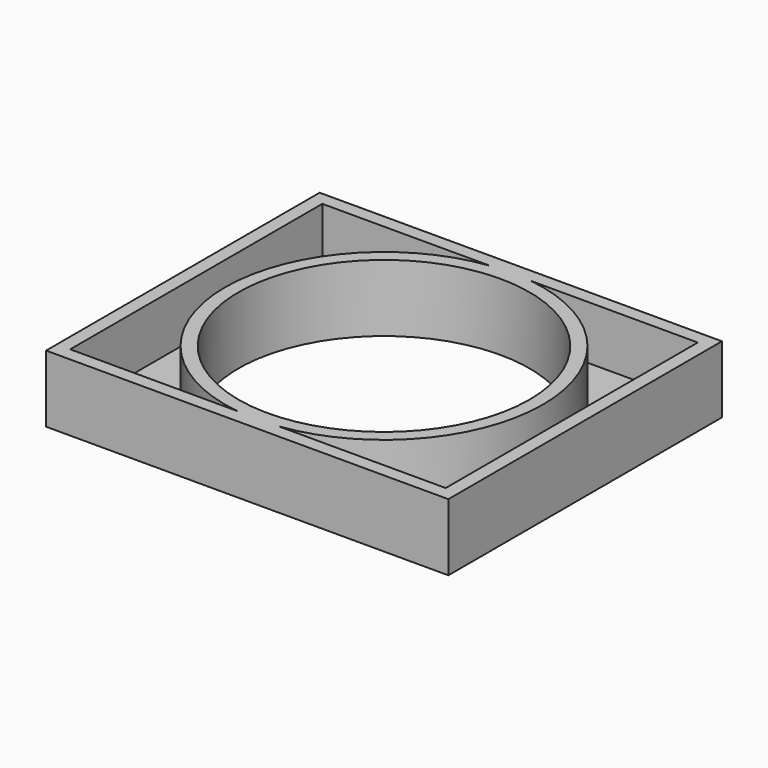
from build123d import *

# Parameters (mm, degrees)
F0_W     = 76.2
F0_H     = 64.77
F0_R     = 27.559
F1_DEPTH = 12.7
F2_T     = -2.54


with BuildPart() as f1:
    # F0 (on Top) → F1 (new body)
    with BuildSketch(Plane.XY):
        Rectangle(F0_W, F0_H)
        Circle(F0_R, mode=Mode.SUBTRACT)
    extrude(amount=F1_DEPTH)

    # F2
    f2_openings = [f1.faces().sort_by_distance(p)[0] for p in [
        (37.09992, 0, 12.7),
    ]]
    offset(amount=F2_T, openings=f2_openings)


solid = f1.part
